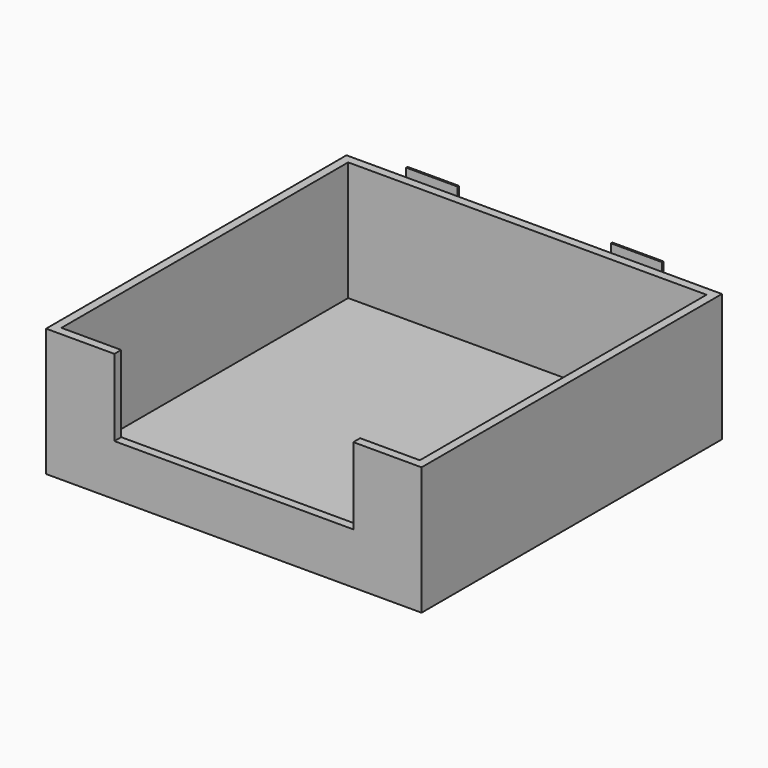
from build123d import *

# Parameters (mm, degrees)
F0_W      = 558.8
F0_H      = 558.8
F1_DEPTH  = 12.7
F2_W      = 12.7
F2_H      = 546.1
F3_DEPTH  = 177.8
F4_W      = 533.4
F4_H      = 12.7
F5_DEPTH  = 63.5
F6_W      = 88.9
F6_H      = 12.7
F7_DEPTH  = 114.3
F8_W      = 76.2
F8_H      = 38.1
F9_DEPTH  = 2.54
F10_W     = 76.2
F10_H     = 2.54
F11_DEPTH = 12.7
F13_DEPTH = 2.54
F15_DEPTH = 2.54


with BuildPart() as f1:
    # F0 (on Top) → F1 (new body)
    with BuildSketch(Plane.XY):
        Rectangle(F0_W, F0_H)
    extrude(amount=F1_DEPTH)

    # F2 (on face) → F3 (join)
    with BuildSketch(Plane.XY.offset(12.7)):
        with Locations((-273.05, -6.35)):
            Rectangle(F2_W, F2_H)
        Polygon((279.4, 279.4), (-279.4, 279.4), (-279.4, 266.7), (-266.7, 266.7), (266.7, 266.7), (279.4, 266.7), align=None)
        with Locations((273.05, -6.35)):
            Rectangle(F2_W, F2_H)
    extrude(amount=F3_DEPTH)

    # F4 (on face) → F5 (join)
    with BuildSketch(Plane.XY.offset(12.7)):
        with Locations((0, -273.05)):
            Rectangle(F4_W, F4_H)
    extrude(amount=F5_DEPTH)

    # F6 (on face) → F7 (join)
    with BuildSketch(Plane.XY.offset(76.2)):
        with Locations((-222.25, -273.05)):
            Rectangle(F6_W, F6_H)
        with Locations((222.25, -273.05)):
            Rectangle(F6_W, F6_H)
    extrude(amount=F7_DEPTH)

    # F8 (on face) → F9 (join)
    with BuildSketch(Plane(origin=(0, 279.4, 0), x_dir=(-1, 0, 0), z_dir=(0, 1, 0))):
        with Locations((-152.4, 171.45)):
            Rectangle(F8_W, F8_H)
        with Locations((152.4, 171.45)):
            Rectangle(F8_W, F8_H)
    extrude(amount=F9_DEPTH)

    # F10 (on face) → F11 (join)
    with BuildSketch(Plane.XY.offset(190.5)):
        with Locations((-152.4, 280.67)):
            Rectangle(F10_W, F10_H)
        with Locations((152.4, 280.67)):
            Rectangle(F10_W, F10_H)
    extrude(amount=F11_DEPTH)

    # F12 (on face) → F13 (cut)
    with BuildSketch(Plane(origin=(0, 281.94, 0), x_dir=(-1, 0, 0), z_dir=(0, 1, 0))):
        with BuildLine():
            Line((-171.45, 158.75), (-171.45, 171.45))
            ThreePointArc((-171.45, 171.45), (-177.8, 165.1), (-171.45, 158.75))
        make_face()
        with BuildLine():
            ThreePointArc((-165.1, 165.1), (-166.9598719395, 169.5901280605), (-171.45, 171.45))
            Line((-171.45, 171.45), (-171.45, 158.75))
            ThreePointArc((-171.45, 158.75), (-166.9598719395, 160.6098719395), (-165.1, 165.1))
        make_face()
        with BuildLine():
            ThreePointArc((-152.4, 184.15), (-156.8901280605, 182.2901280605), (-158.75, 177.8))
            Line((-158.75, 177.8), (-152.4, 177.8))
            Line((-152.4, 177.8), (-152.4, 184.15))
        make_face()
        with BuildLine():
            Line((-152.4, 177.8), (-158.75, 177.8))
            ThreePointArc((-158.75, 177.8), (-156.8901280605, 173.3098719395), (-152.4, 171.45))
            Line((-152.4, 171.45), (-152.4, 177.8))
        make_face()
        with BuildLine():
            Line((-146.05, 177.8), (-152.4, 177.8))
            Line((-152.4, 177.8), (-152.4, 171.45))
            ThreePointArc((-152.4, 171.45), (-147.9098719395, 173.3098719395), (-146.05, 177.8))
        make_face()
        with BuildLine():
            Line((-152.4, 184.15), (-152.4, 177.8))
            Line((-152.4, 177.8), (-146.05, 177.8))
            ThreePointArc((-146.05, 177.8), (-147.9098719395, 182.2901280605), (-152.4, 184.15))
        make_face()
        with BuildLine():
            ThreePointArc((-133.35, 171.45), (-139.7, 165.1), (-133.35, 158.75))
            Line((-133.35, 158.75), (-133.35, 171.45))
        make_face()
        with BuildLine():
            Line((-133.35, 171.45), (-133.35, 158.75))
            ThreePointArc((-133.35, 158.75), (-128.8598719395, 160.6098719395), (-127, 165.1))
            ThreePointArc((-127, 165.1), (-128.8598719395, 169.5901280605), (-133.35, 171.45))
        make_face()
    extrude(amount=-F13_DEPTH, mode=Mode.SUBTRACT)

    # F14 (on face) → F15 (cut)
    with BuildSketch(Plane(origin=(0, 281.94, 0), x_dir=(-1, 0, 0), z_dir=(0, 1, 0))):
        with BuildLine():
            Line((152.4, 184.15), (152.4, 177.8))
            Line((152.4, 177.8), (158.75, 177.8))
            ThreePointArc((158.75, 177.8), (156.8901280605, 182.2901280605), (152.4, 184.15))
        make_face()
        with BuildLine():
            ThreePointArc((152.4, 184.15), (147.9098719395, 182.2901280605), (146.05, 177.8))
            Line((146.05, 177.8), (152.4, 177.8))
            Line((152.4, 177.8), (152.4, 184.15))
        make_face()
        with BuildLine():
            Line((152.4, 177.8), (146.05, 177.8))
            ThreePointArc((146.05, 177.8), (147.9098719395, 173.3098719395), (152.4, 171.45))
            Line((152.4, 171.45), (152.4, 177.8))
        make_face()
        with BuildLine():
            Line((158.75, 177.8), (152.4, 177.8))
            Line((152.4, 177.8), (152.4, 171.45))
            ThreePointArc((152.4, 171.45), (156.8901280605, 173.3098719395), (158.75, 177.8))
        make_face()
        with BuildLine():
            ThreePointArc((139.7, 165.1), (137.8401280605, 169.5901280605), (133.35, 171.45))
            Line((133.35, 171.45), (133.35, 158.75))
            ThreePointArc((133.35, 158.75), (137.8401280605, 160.6098719395), (139.7, 165.1))
        make_face()
        with BuildLine():
            Line((133.35, 158.75), (133.35, 171.45))
            ThreePointArc((133.35, 171.45), (127, 165.1), (133.35, 158.75))
        make_face()
        with BuildLine():
            ThreePointArc((171.45, 171.45), (165.1, 165.1), (171.45, 158.75))
            Line((171.45, 158.75), (171.45, 171.45))
        make_face()
        with BuildLine():
            Line((171.45, 171.45), (171.45, 158.75))
            ThreePointArc((171.45, 158.75), (175.9401280605, 160.6098719395), (177.8, 165.1))
            ThreePointArc((177.8, 165.1), (175.9401280605, 169.5901280605), (171.45, 171.45))
        make_face()
    extrude(amount=-F15_DEPTH, mode=Mode.SUBTRACT)


solid = f1.part
